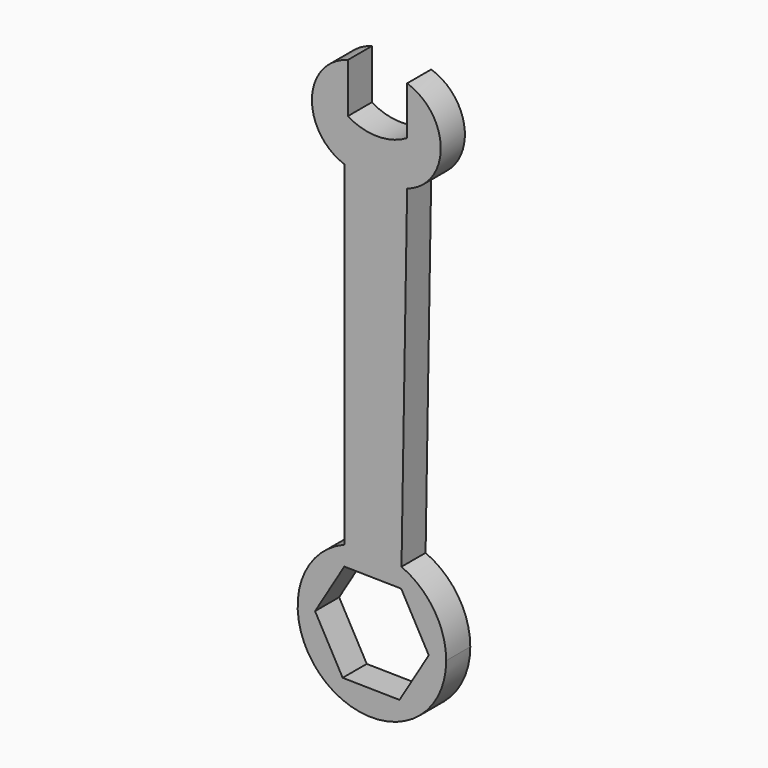
from build123d import *

# Parameters (mm, degrees)
F1_DEPTH = 9.017
F2_DEPTH = 10.795


with BuildPart() as f1:
    # F0 (on Front) → F1 (new body)
    with BuildSketch(Plane.XZ):
        with BuildLine():
            Line((-48.0792992256, 97.4998560334), (-25.5571910474, 97.1389572937))
            ThreePointArc((-25.5571910474, 97.1389572937), (-13.4866539111, 113.7481608485), (-25.5571910474, 130.3573644034))
            Line((-25.5571910474, 130.3573644034), (-25.5571910474, 113.0603018233))
            ThreePointArc((-25.5571910474, 113.0603018233), (-36.2000364442, 110.1431708658), (-46.842881841, 113.0603018233))
            Line((-46.842881841, 113.0603018233), (-46.842881841, 130.8020415732))
            ThreePointArc((-46.842881841, 130.8020415732), (-59.6904318944, 114.6049901828), (-48.0792992256, 97.4998560334))
        make_face()
    extrude(amount=F1_DEPTH)

    # F0 (on Front) → F2 (join)
    with BuildSketch(Plane.XZ):
        with BuildLine():
            Line((-27.6932814315, -29.8430773328), (-17.7972615414, -47.6693533076))
            Line((-17.7972615414, -47.6693533076), (-28.2872594454, -65.1526959162))
            Line((-28.2872594454, -65.1526959162), (-48.6732772395, -64.80976255))
            Line((-48.6732772395, -64.80976255), (-58.5692971296, -46.9834865752))
            Line((-58.5692971296, -46.9834865752), (-48.0792992256, -29.5001439666))
            Line((-48.0792992256, -29.5001439666), (-48.0792992256, -22.5995532387))
            ThreePointArc((-48.0792992256, -22.5995532387), (-53.1128208355, -69.3822114075), (-11.5496699932, -47.3264199414))
            ThreePointArc((-11.5496699932, -47.3264199414), (-15.9139266557, -32.7173447543), (-27.5764183831, -22.8960362495))
            Line((-27.5764183831, -22.8960362495), (-27.6932814315, -29.8430773328))
        make_face()
        with BuildLine():
            Line((-48.0792992256, -29.5001439666), (-27.6932814315, -29.8430773328))
            Line((-27.6932814315, -29.8430773328), (-27.5764183831, -22.8960362495))
            ThreePointArc((-27.5764183831, -22.8960362495), (-37.7981828569, -20.6955948077), (-48.0792992256, -22.5995532387))
            Line((-48.0792992256, -22.5995532387), (-48.0792992256, -29.5001439666))
        make_face()
        with BuildLine():
            ThreePointArc((-48.0792992256, -22.5995532387), (-37.7981828569, -20.6955948077), (-27.5764183831, -22.8960362495))
            Line((-27.5764183831, -22.8960362495), (-25.5571910474, 97.1389572937))
            Line((-25.5571910474, 97.1389572937), (-48.0792992256, 97.4998560334))
            Line((-48.0792992256, 97.4998560334), (-48.0792992256, -22.5995532387))
        make_face()
        with BuildLine():
            Line((-48.0792992256, 97.4998560334), (-25.5571910474, 97.1389572937))
            ThreePointArc((-25.5571910474, 97.1389572937), (-13.4866539111, 113.7481608485), (-25.5571910474, 130.3573644034))
            Line((-25.5571910474, 130.3573644034), (-25.5571910474, 113.0603018233))
            ThreePointArc((-25.5571910474, 113.0603018233), (-36.2000364442, 110.1431708658), (-46.842881841, 113.0603018233))
            Line((-46.842881841, 113.0603018233), (-46.842881841, 130.8020415732))
            ThreePointArc((-46.842881841, 130.8020415732), (-59.6904318944, 114.6049901828), (-48.0792992256, 97.4998560334))
        make_face()
    extrude(amount=F2_DEPTH)


solid = f1.part
